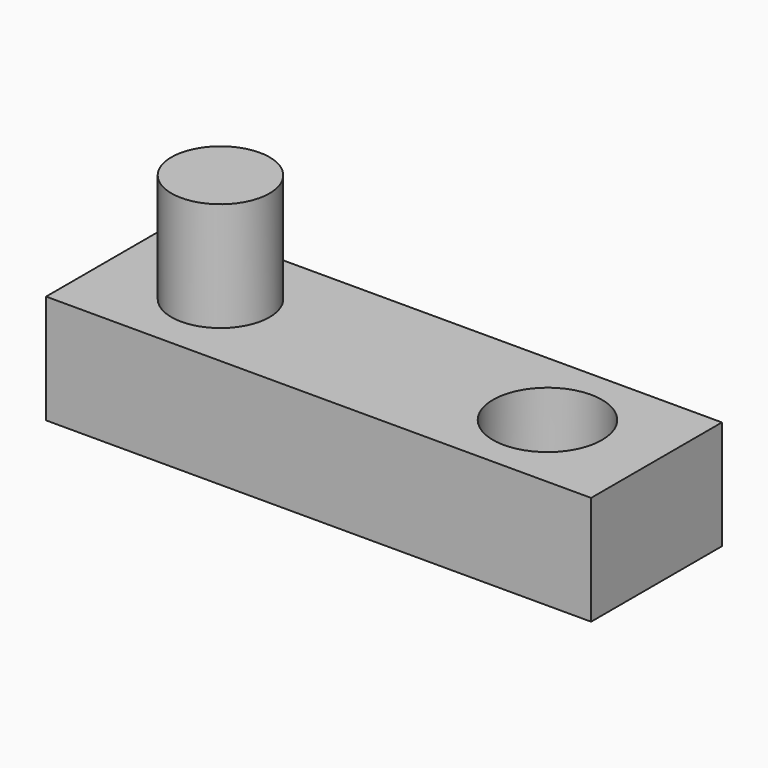
from build123d import *

# Parameters (mm, degrees)
F0_W     = 50
F0_H     = 15
F0_R     = 5
F1_DEPTH = 10
F2_R     = 4.5
F3_DEPTH = 10


with BuildPart() as f1:
    # F0 (on Top) → F1 (new body)
    with BuildSketch(Plane.XY):
        Rectangle(F0_W, F0_H)
        with Locations((15, 0)):
            Circle(F0_R, mode=Mode.SUBTRACT)
    extrude(amount=F1_DEPTH)

    # F2 (on face) → F3 (join)
    with BuildSketch(Plane.XY.offset(10)):
        with Locations((-15, 0)):
            Circle(F2_R)
    extrude(amount=F3_DEPTH)


solid = f1.part
